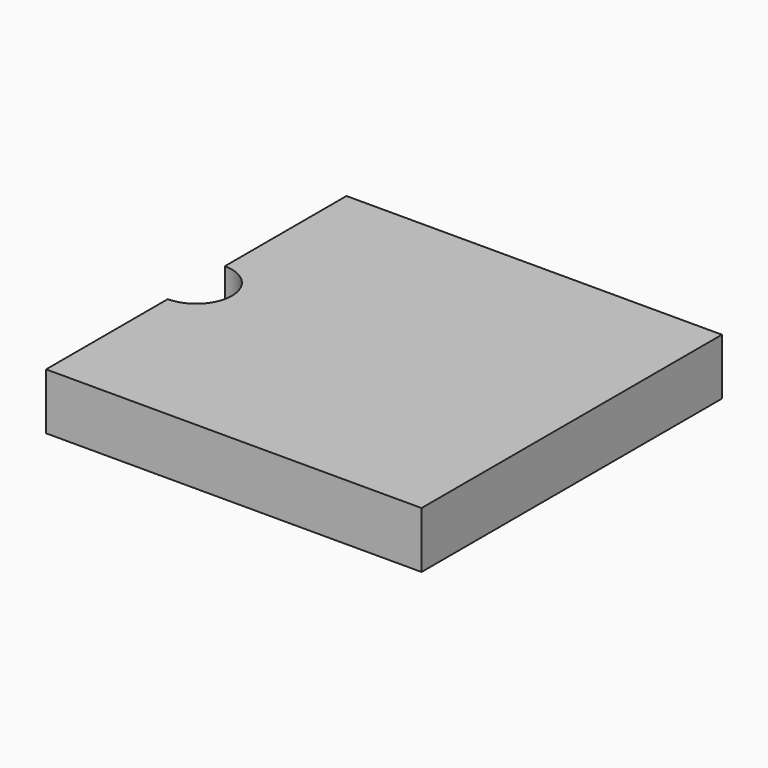
from build123d import *

# Parameters (mm, degrees)
F1_DEPTH = 3


with BuildPart() as f1:
    # F0 (on Top) → F1 (new body)
    with BuildSketch(Plane.XY):
        with BuildLine():
            ThreePointArc((0, 1.9), (1.9, 0), (0, -1.9))
            Line((0, -1.9), (0, -10))
            Line((0, -10), (20, -10))
            Line((20, -10), (20, 10))
            Line((20, 10), (0, 10))
            Line((0, 10), (0, 1.9))
        make_face()
    extrude(amount=F1_DEPTH)


solid = f1.part
